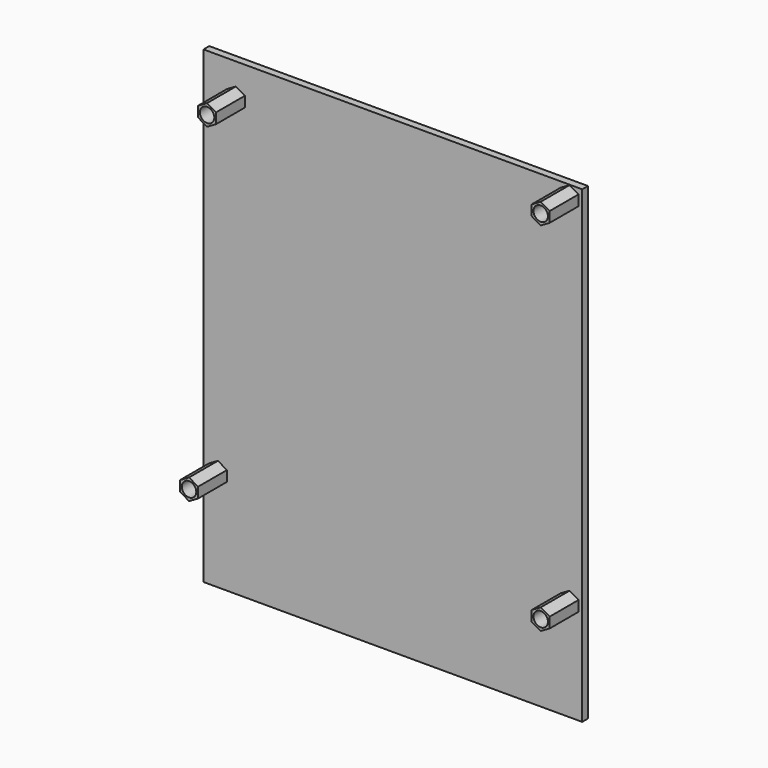
from build123d import *

# Parameters (mm, degrees)
F0_W     = 105
F0_H     = 130
F0_R     = 2
F1_DEPTH = 2
F2_R     = 2
F3_DEPTH = 10


with BuildPart() as f1:
    # F0 (on Front) → F1 (new body)
    with BuildSketch(Plane.XZ):
        Rectangle(F0_W, F0_H)
        with Locations((-48.5, -37)):
            Circle(F0_R, mode=Mode.SUBTRACT)
        with Locations((49, -37)):
            Circle(F0_R, mode=Mode.SUBTRACT)
        with Locations((-43.5, 56)):
            Circle(F0_R, mode=Mode.SUBTRACT)
        with Locations((49, 62)):
            Circle(F0_R, mode=Mode.SUBTRACT)
    extrude(amount=F1_DEPTH)

    # F2 (on face) → F3 (join)
    with BuildSketch(Plane.XZ.offset(2)):
        Polygon((-41, 54.556624), (-41, 57.443376), (-43.5, 58.886751), (-46, 57.443376), (-46, 54.556624), (-43.5, 53.113249), align=None)
        with Locations((-43.5, 56)):
            Circle(F2_R, mode=Mode.SUBTRACT)
        Polygon((51.5, 60.556624), (51.5, 63.443376), (49, 64.886751), (46.5, 63.443376), (46.5, 60.556624), (49, 59.113249), align=None)
        with Locations((49, 62)):
            Circle(F2_R, mode=Mode.SUBTRACT)
        Polygon((-46, -38.443376), (-46, -35.556624), (-48.5, -34.113249), (-51, -35.556624), (-51, -38.443376), (-48.5, -39.886751), align=None)
        with Locations((-48.5, -37)):
            Circle(F2_R, mode=Mode.SUBTRACT)
        Polygon((46.5, -35.556624), (46.5, -38.443376), (49, -39.886751), (51.5, -38.443376), (51.5, -35.556624), (49, -34.113249), align=None)
        with Locations((49, -37)):
            Circle(F2_R, mode=Mode.SUBTRACT)
    extrude(amount=F3_DEPTH)


solid = f1.part
